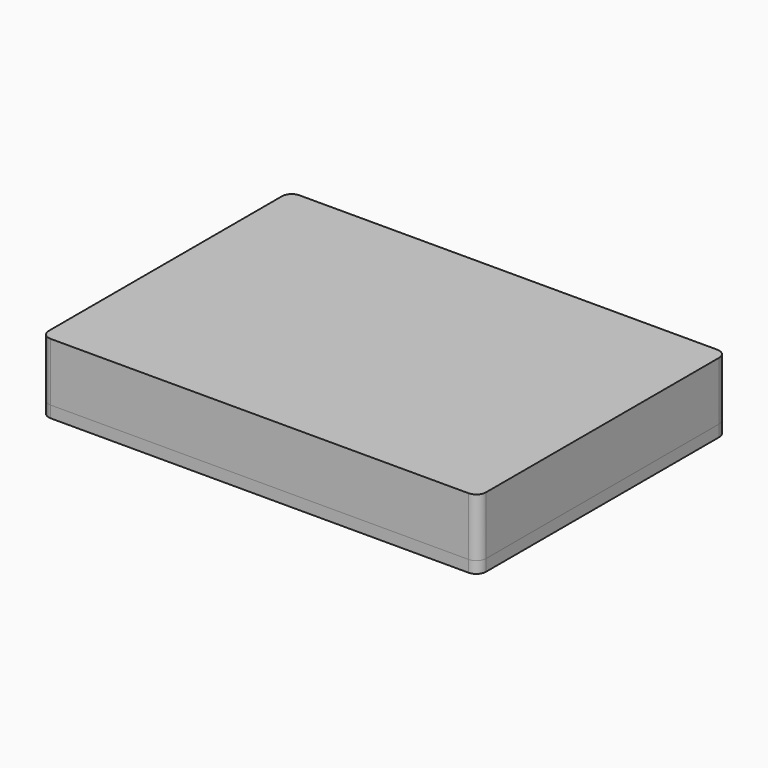
from build123d import *

# Parameters (mm, degrees)
F0_W           = 225
F0_H           = 160
F1_DEPTH       = 6
F2_R           = 5
F4_D           = 6.6
F4_DEPTH       = 7
F4_CSINK_D     = 13.44
F4_CSINK_ANGLE = 90
F4_TIP         = 1.9828400428
F6_DEPTH       = 30


with BuildPart() as f1:
    # F0 (on Top) → F1 (new body)
    with BuildSketch(Plane.XY):
        Rectangle(F0_W, F0_H)
    extrude(amount=F1_DEPTH)

    # F2
    f2_edges = [f1.edges().sort_by_distance(p)[0] for p in [
        (112.5, -80, 3),
        (112.5, 80, 3),
        (-112.5, -80, 3),
        (-112.5, 80, 3),
    ]]
    fillet(f2_edges, radius=F2_R)

    # F4
    with Locations(Plane.XY.offset(6)):
        with Locations((12.5, -65), (72.5, -65), (72.5, 65), (12.5, 65)):
            CounterSinkHole(F4_D / 2, F4_CSINK_D / 2, depth=F4_DEPTH, counter_sink_angle=F4_CSINK_ANGLE)
            with Locations((0, 0, -(F4_DEPTH + F4_TIP / 2))):  # 118° drill point
                Cone(0, F4_D / 2, F4_TIP, mode=Mode.SUBTRACT)


with BuildPart() as f6:
    # F5 (on face) → F6 (new body)
    with BuildSketch(Plane.XY.offset(6)):
        with BuildLine():
            ThreePointArc((107.5, -80), (111.0355339059, -78.5355339059), (112.5, -75))
            Line((112.5, -75), (112.5, 75))
            ThreePointArc((112.5, 75), (111.0355339059, 78.5355339059), (107.5, 80))
            Line((107.5, 80), (-107.5, 80))
            ThreePointArc((-107.5, 80), (-111.0355339059, 78.5355339059), (-112.5, 75))
            Line((-112.5, 75), (-112.5, -75))
            ThreePointArc((-112.5, -75), (-111.0355339059, -78.5355339059), (-107.5, -80))
            Line((-107.5, -80), (107.5, -80))
        make_face()
    extrude(amount=F6_DEPTH)


solid = Compound([f1.part, f6.part])
